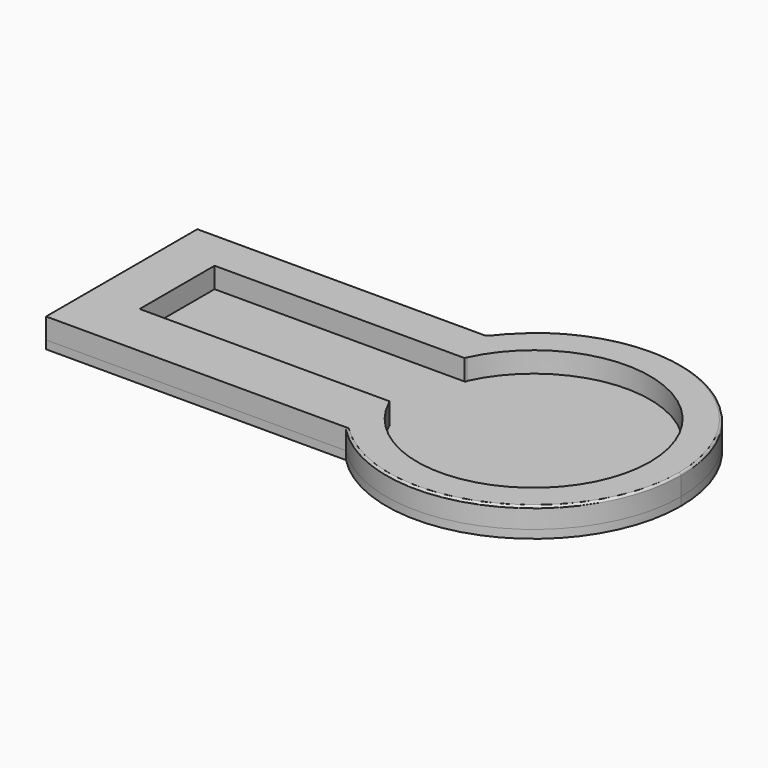
from build123d import *

# Parameters (mm, degrees)
F1_DEPTH = 5
F2_DEPTH = 2
F3_R     = 0.5


with BuildPart() as f1:
    # F0 (on Top) → F1 (new body)
    with BuildSketch(Plane.XY):
        with BuildLine():
            Line((40.9670270449, -11.7946057751), (40.9670270449, -24.8077154982))
            ThreePointArc((40.9670270449, -24.8077154982), (79.9314364383, -33.0253063754), (102.1819002091, 0))
            ThreePointArc((102.1819002091, 0), (77.5651040623, 33.8882275669), (37.7262560363, 20.9551379085))
            Line((37.7262560363, 20.9551379085), (40.9670270449, 20.9551379085))
            Line((40.9670270449, 20.9551379085), (40.9670270449, 11.7946057751))
            ThreePointArc((40.9670270449, 11.7946057751), (72.5853396238, 27.5142114088), (94.7165813911, 0))
            ThreePointArc((94.7165813911, 0), (72.5853396238, -27.5142114088), (40.9670270449, -11.7946057751))
        make_face()
        with BuildLine():
            ThreePointArc((32.7735476611, -11.3622117788), (36.1183690598, -18.5431708699), (40.9670270449, -24.8077154982))
            Line((40.9670270449, -24.8077154982), (40.9670270449, -11.7946057751))
            ThreePointArc((40.9670270449, -11.7946057751), (40.868632708, -11.578819153), (40.7720586057, -11.3622117788))
            Line((40.7720586057, -11.3622117788), (32.7735476611, -11.3622117788))
        make_face()
        with BuildLine():
            Line((-31.6453352571, -24.8077154982), (40.9670270449, -24.8077154982))
            ThreePointArc((40.9670270449, -24.8077154982), (36.1183690598, -18.5431708699), (32.7735476611, -11.3622117788))
            Line((32.7735476611, -11.3622117788), (-19.7501089424, -11.3622117788))
            Line((-19.7501089424, -11.3622117788), (-19.7501089424, 11.3164428622))
            Line((-19.7501089424, 11.3164428622), (32.7581847179, 11.3164428622))
            ThreePointArc((32.7581847179, 11.3164428622), (34.8734336467, 16.3258740812), (37.7262560363, 20.9551379085))
            Line((37.7262560363, 20.9551379085), (-31.6453352571, 20.9551379085))
            Line((-31.6453352571, 20.9551379085), (-31.6453352571, -24.8077154982))
        make_face()
        with BuildLine():
            Line((40.9670270449, 20.9551379085), (37.7262560363, 20.9551379085))
            ThreePointArc((37.7262560363, 20.9551379085), (34.8734336467, 16.3258740812), (32.7581847179, 11.3164428622))
            Line((32.7581847179, 11.3164428622), (40.7519316287, 11.3164428622))
            ThreePointArc((40.7519316287, 11.3164428622), (40.8583667908, 11.5560247831), (40.9670270449, 11.7946057751))
            Line((40.9670270449, 11.7946057751), (40.9670270449, 20.9551379085))
        make_face()
    extrude(amount=F1_DEPTH)

    # F3
    f3_edges = [f1.edges().sort_by_distance(p)[0] for p in [
        (102.092882, 2.517188, 5),
    ]]
    fillet(f3_edges, radius=F3_R)


with BuildPart() as f2:
    # F0 (on Top) → F2 (new body)
    with BuildSketch(Plane.XY):
        with BuildLine():
            Line((40.9670270449, -11.3622117788), (40.9670270449, -11.7946057751))
            ThreePointArc((40.9670270449, -11.7946057751), (72.5853396238, -27.5142114088), (94.7165813911, 0))
            ThreePointArc((94.7165813911, 0), (72.5853396238, 27.5142114088), (40.9670270449, 11.7946057751))
            Line((40.9670270449, 11.7946057751), (40.9670270449, 11.3164428622))
            Line((40.9670270449, 11.3164428622), (40.9670270449, -11.3622117788))
        make_face()
        with BuildLine():
            Line((-19.7501089424, -11.3622117788), (32.7735476611, -11.3622117788))
            ThreePointArc((32.7735476611, -11.3622117788), (30.9135512158, -0.024139251), (32.7581847179, 11.3164428622))
            Line((32.7581847179, 11.3164428622), (-19.7501089424, 11.3164428622))
            Line((-19.7501089424, 11.3164428622), (-19.7501089424, -11.3622117788))
        make_face()
        with BuildLine():
            Line((40.7720586057, -11.3622117788), (40.9670270449, -11.3622117788))
            Line((40.9670270449, -11.3622117788), (40.9670270449, 11.3164428622))
            Line((40.9670270449, 11.3164428622), (40.7519316287, 11.3164428622))
            ThreePointArc((40.7519316287, 11.3164428622), (38.378872951, -0.0249994447), (40.7720586057, -11.3622117788))
        make_face()
        with BuildLine():
            ThreePointArc((32.7735476611, -11.3622117788), (36.1183690598, -18.5431708699), (40.9670270449, -24.8077154982))
            Line((40.9670270449, -24.8077154982), (40.9670270449, -11.7946057751))
            ThreePointArc((40.9670270449, -11.7946057751), (40.868632708, -11.578819153), (40.7720586057, -11.3622117788))
            Line((40.7720586057, -11.3622117788), (32.7735476611, -11.3622117788))
        make_face()
        with BuildLine():
            Line((-31.6453352571, -24.8077154982), (40.9670270449, -24.8077154982))
            ThreePointArc((40.9670270449, -24.8077154982), (36.1183690598, -18.5431708699), (32.7735476611, -11.3622117788))
            Line((32.7735476611, -11.3622117788), (-19.7501089424, -11.3622117788))
            Line((-19.7501089424, -11.3622117788), (-19.7501089424, 11.3164428622))
            Line((-19.7501089424, 11.3164428622), (32.7581847179, 11.3164428622))
            ThreePointArc((32.7581847179, 11.3164428622), (34.8734336467, 16.3258740812), (37.7262560363, 20.9551379085))
            Line((37.7262560363, 20.9551379085), (-31.6453352571, 20.9551379085))
            Line((-31.6453352571, 20.9551379085), (-31.6453352571, -24.8077154982))
        make_face()
        with BuildLine():
            Line((40.9670270449, 20.9551379085), (37.7262560363, 20.9551379085))
            ThreePointArc((37.7262560363, 20.9551379085), (34.8734336467, 16.3258740812), (32.7581847179, 11.3164428622))
            Line((32.7581847179, 11.3164428622), (40.7519316287, 11.3164428622))
            ThreePointArc((40.7519316287, 11.3164428622), (40.8583667908, 11.5560247831), (40.9670270449, 11.7946057751))
            Line((40.9670270449, 11.7946057751), (40.9670270449, 20.9551379085))
        make_face()
        with BuildLine():
            Line((40.9670270449, -11.7946057751), (40.9670270449, -24.8077154982))
            ThreePointArc((40.9670270449, -24.8077154982), (79.9314364383, -33.0253063754), (102.1819002091, 0))
            ThreePointArc((102.1819002091, 0), (77.5651040623, 33.8882275669), (37.7262560363, 20.9551379085))
            Line((37.7262560363, 20.9551379085), (40.9670270449, 20.9551379085))
            Line((40.9670270449, 20.9551379085), (40.9670270449, 11.7946057751))
            ThreePointArc((40.9670270449, 11.7946057751), (72.5853396238, 27.5142114088), (94.7165813911, 0))
            ThreePointArc((94.7165813911, 0), (72.5853396238, -27.5142114088), (40.9670270449, -11.7946057751))
        make_face()
        with BuildLine():
            ThreePointArc((32.7581847179, 11.3164428622), (30.9135512158, -0.024139251), (32.7735476611, -11.3622117788))
            Line((32.7735476611, -11.3622117788), (40.7720586057, -11.3622117788))
            ThreePointArc((40.7720586057, -11.3622117788), (38.378872951, -0.0249994447), (40.7519316287, 11.3164428622))
            Line((40.7519316287, 11.3164428622), (32.7581847179, 11.3164428622))
        make_face()
    extrude(amount=-F2_DEPTH)


solid = Compound([f1.part, f2.part])
